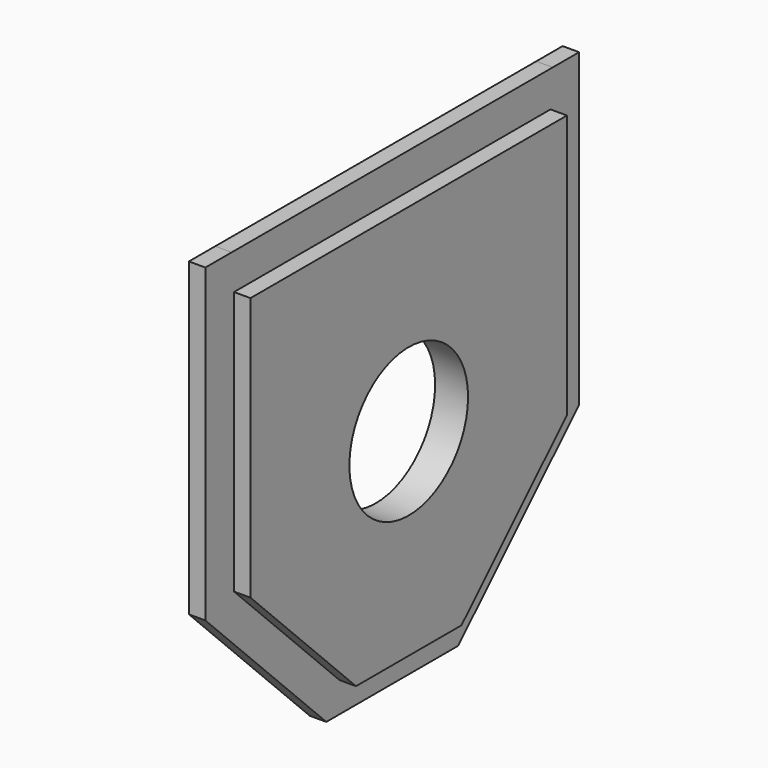
from build123d import *

# Parameters (mm, degrees)
F0_R     = 28.575
F1_DEPTH = 12.7
F2_DEPTH = 6.35


with BuildPart() as f1:
    # F0 (on Right) → F1 (new body)
    with BuildSketch(Plane.YZ):
        Polygon((-76.2, -25.46159), (-25.4, -76.13841), (25.4, -76.13841), (76.2, -25.46159), (76.2, 76.13841), (-76.2, 76.13841), align=None)
        Circle(F0_R, mode=Mode.SUBTRACT)
    extrude(amount=F1_DEPTH)

    # F0 (on Right) → F2 (join)
    with BuildSketch(Plane.YZ):
        Polygon((89.998516, 89.934262), (77.298516, 89.934262), (-77.298516, 90.057443), (-89.998516, 90.057443), (-89.998516, -29.635283), (-31.75, -87.742557), (31.75, -87.742557), (89.998516, -29.635283), (89.998516, 77.234262), align=None)
        Polygon((25.4, -76.13841), (-25.4, -76.13841), (-76.2, -25.46159), (-76.2, 76.13841), (76.2, 76.13841), (76.2, -25.46159), align=None, mode=Mode.SUBTRACT)
    extrude(amount=F2_DEPTH)


solid = f1.part
